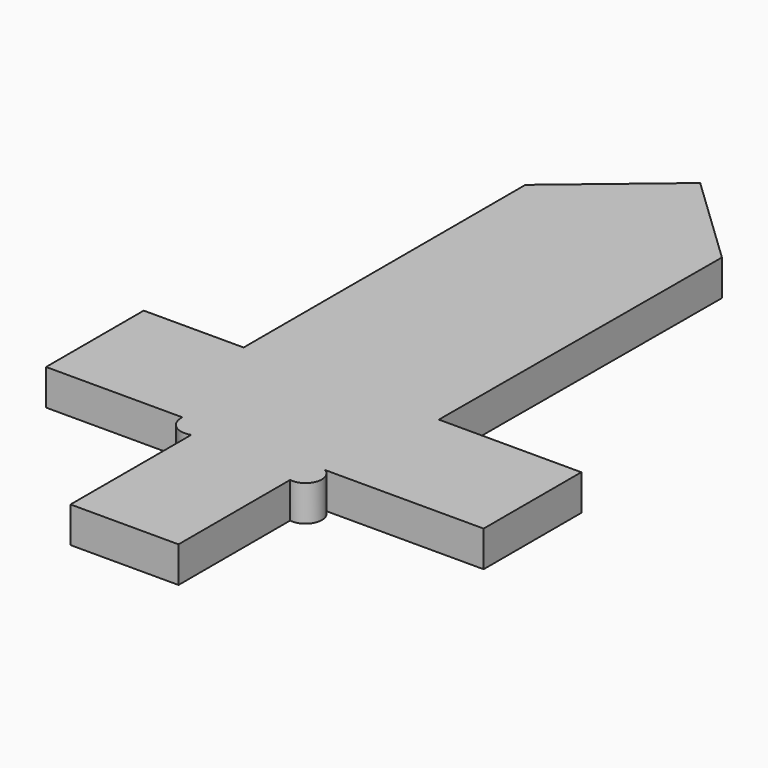
from build123d import *

# Parameters (mm, degrees)
F1_DEPTH = 6.35


with BuildPart() as f1:
    # F0 (on Top) → F1 (new body)
    with BuildSketch(Plane.XY):
        with BuildLine():
            Line((11.2930470291, 11.6638336243), (11.2889658673, 8.2962913439))
            Line((11.2889658673, 8.2962913439), (12.0783096254, 8.2962913439))
            ThreePointArc((12.0783096254, 8.2962913439), (11.597122228, 9.9594124709), (11.2930470291, 11.6638336243))
        make_face()
        with BuildLine():
            ThreePointArc((37.3601643932, 8.2962913439), (38.2870822741, 3.6378996321), (41.3408465683, 0))
            Line((41.3408465683, 0), (41.3408465683, 8.2962913439))
            Line((41.3408465683, 8.2962913439), (37.3601643932, 8.2962913439))
        make_face()
        Polygon((-2.8123026714, 44.2937612534), (-2.8123026714, 8.2962913439), (4.7809146345, 8.2962913439), (4.2298541355, 62.0834718136), (0, 65.1047974825), (-2.8123026714, 61.1675754189), (-2.8123026714, 51.8869794905), align=None)
        with BuildLine():
            Line((-10.813491419, 44.2937612534), (-10.8399443516, 12.7670755447))
            ThreePointArc((-10.8399443516, 12.7670755447), (-7.807634986, 11.5598221537), (-7.8491980914, 8.2962913439))
            Line((-7.8491980914, 8.2962913439), (-2.8123026714, 8.2962913439))
            Line((-2.8123026714, 8.2962913439), (-2.8123026714, 44.2937612534))
            Line((-2.8123026714, 44.2937612534), (-2.8123026714, 51.8869794905))
            Line((-2.8123026714, 51.8869794905), (-2.8123026714, 61.1675754189))
            Line((-2.8123026714, 61.1675754189), (0, 65.1047974825))
            Line((0, 65.1047974825), (4.2298541355, 62.0834718136))
            Line((4.2298541355, 62.0834718136), (4.7809146345, 8.2962913439))
            Line((4.7809146345, 8.2962913439), (7.9583702463, 8.2962913439))
            ThreePointArc((7.9583702463, 8.2962913439), (8.7402628967, 10.8568667256), (11.2930470291, 11.6638336243))
            Line((11.2930470291, 11.6638336243), (11.3227786668, 36.1966877298))
            Line((11.3227786668, 36.1966877298), (11.3565914662, 64.0970841157))
            Line((11.3565914662, 64.0970841157), (0, 76.3540118933))
            Line((0, 76.3540118933), (-10.813491419, 66.3348287344))
            Line((-10.813491419, 66.3348287344), (-10.813491419, 44.2937612534))
        make_face()
        with BuildLine():
            Line((-7.8520236744, -16.7259749874), (-7.8491980914, -13.3584365249))
            Line((-7.8491980914, -13.3584365249), (-12.0928995311, -13.3584365249))
            ThreePointArc((-12.0928995311, -13.3584365249), (-10.8775211038, -16.1819833799), (-7.8520236744, -16.7259749874))
        make_face()
        with BuildLine():
            ThreePointArc((11.2889658673, -38.08565063), (8.4977328176, -40.3265486279), (6.7495256662, -43.4500686824))
            Line((6.7495256662, -43.4500686824), (11.2889658673, -43.4500686824))
            Line((11.2889658673, -43.4500686824), (11.2889658673, -38.08565063))
        make_face()
        with BuildLine():
            Line((11.2889658673, -13.3584365249), (11.2889658673, -18.7083456713))
            ThreePointArc((11.2889658673, -18.7083456713), (14.4627701422, -16.8299590512), (13.2178198546, -13.3584365249))
            Line((13.2178198546, -13.3584365249), (11.2889658673, -13.3584365249))
        make_face()
        with BuildLine():
            ThreePointArc((41.3408465683, -8.0150617286), (38.6442879923, -10.0493741157), (37.9660837352, -13.3584365249))
            Line((37.9660837352, -13.3584365249), (41.3408465683, -13.3584365249))
            Line((41.3408465683, -13.3584365249), (41.3408465683, -8.0150617286))
        make_face()
        with BuildLine():
            Line((-10.8399443516, 12.7670755447), (-10.8436956293, 8.2962913439))
            Line((-10.8436956293, 8.2962913439), (-10.813491419, 8.2962913439))
            Line((-10.813491419, 8.2962913439), (-7.8491980914, 8.2962913439))
            ThreePointArc((-7.8491980914, 8.2962913439), (-7.807634986, 11.5598221537), (-10.8399443516, 12.7670755447))
        make_face()
        with BuildLine():
            ThreePointArc((-5.6246044114, -43.4500686824), (-5.6592907147, -40.9529633104), (-7.8713791675, -39.793910656))
            Line((-7.8713791675, -39.793910656), (-7.8744469211, -43.4500686824))
            Line((-7.8744469211, -43.4500686824), (-5.6246044114, -43.4500686824))
        make_face()
        with BuildLine():
            ThreePointArc((11.2930470291, 11.6638336243), (8.7402628967, 10.8568667256), (7.9583702463, 8.2962913439))
            Line((7.9583702463, 8.2962913439), (11.2889658673, 8.2962913439))
            Line((11.2889658673, 8.2962913439), (11.2930470291, 11.6638336243))
        make_face()
        with BuildLine():
            Line((-12.0928995311, -13.3584365249), (-7.8491980914, -13.3584365249))
            Line((-7.8491980914, -13.3584365249), (-7.8520236744, -16.7259749874))
            Line((-7.8520236744, -16.7259749874), (-7.8713791675, -39.793910656))
            ThreePointArc((-7.8713791675, -39.793910656), (-5.6592907147, -40.9529633104), (-5.6246044114, -43.4500686824))
            Line((-5.6246044114, -43.4500686824), (6.7495256662, -43.4500686824))
            ThreePointArc((6.7495256662, -43.4500686824), (8.4977328176, -40.3265486279), (11.2889658673, -38.08565063))
            Line((11.2889658673, -38.08565063), (11.2889658673, -18.7083456713))
            Line((11.2889658673, -18.7083456713), (11.2889658673, -13.3584365249))
            Line((11.2889658673, -13.3584365249), (13.2178198546, -13.3584365249))
            Line((13.2178198546, -13.3584365249), (37.9660837352, -13.3584365249))
            ThreePointArc((37.9660837352, -13.3584365249), (38.6442879923, -10.0493741157), (41.3408465683, -8.0150617286))
            Line((41.3408465683, -8.0150617286), (41.3408465683, 0))
            ThreePointArc((41.3408465683, 0), (38.2870822741, 3.6378996321), (37.3601643932, 8.2962913439))
            Line((37.3601643932, 8.2962913439), (31.7790135741, 8.2962913439))
            Line((31.7790135741, 8.2962913439), (17.8106164583, 8.2962913439))
            Line((17.8106164583, 8.2962913439), (16.0766797152, 8.2962913439))
            Line((16.0766797152, 8.2962913439), (14.3427429721, 8.2962913439))
            Line((14.3427429721, 8.2962913439), (12.0783096254, 8.2962913439))
            Line((12.0783096254, 8.2962913439), (11.2889658673, 8.2962913439))
            Line((11.2889658673, 8.2962913439), (7.9583702463, 8.2962913439))
            Line((7.9583702463, 8.2962913439), (4.7809146345, 8.2962913439))
            Line((4.7809146345, 8.2962913439), (-2.8123026714, 8.2962913439))
            Line((-2.8123026714, 8.2962913439), (-7.8491980914, 8.2962913439))
            Line((-7.8491980914, 8.2962913439), (-10.813491419, 8.2962913439))
            Line((-10.813491419, 8.2962913439), (-10.8436956293, 8.2962913439))
            Line((-10.8436956293, 8.2962913439), (-18.5611955822, 8.2962913439))
            Line((-18.5611955822, 8.2962913439), (-27.1387170069, 8.2962913439))
            Line((-27.1387170069, 8.2962913439), (-31.7087078001, 8.2962913439))
            ThreePointArc((-31.7087078001, 8.2962913439), (-32.9074253056, 5.0668217141), (-36.2786985934, 4.3590688147))
            Line((-36.2786985934, 4.3590688147), (-36.2786985934, -8.5775218904))
            ThreePointArc((-36.2786985934, -8.5775218904), (-33.5801197144, -10.4479621169), (-32.0602469146, -13.3584365249))
            Line((-32.0602469146, -13.3584365249), (-12.0928995311, -13.3584365249))
        make_face()
        with BuildLine():
            Line((-18.5611955822, 15.7010573894), (-18.5611955822, 8.2962913439))
            Line((-18.5611955822, 8.2962913439), (-10.8436956293, 8.2962913439))
            Line((-10.8436956293, 8.2962913439), (-10.8399443516, 12.7670755447))
            Line((-10.8399443516, 12.7670755447), (-10.813491419, 44.2937612534))
            Line((-10.813491419, 44.2937612534), (-10.813491419, 66.3348287344))
            Line((-10.813491419, 66.3348287344), (0, 76.3540118933))
            Line((0, 76.3540118933), (11.3565914662, 64.0970841157))
            Line((11.3565914662, 64.0970841157), (11.3227786668, 36.1966877298))
            Line((11.3227786668, 36.1966877298), (11.2930470291, 11.6638336243))
            ThreePointArc((11.2930470291, 11.6638336243), (11.597122228, 9.9594124709), (12.0783096254, 8.2962913439))
            Line((12.0783096254, 8.2962913439), (14.3427429721, 8.2962913439))
            Line((14.3427429721, 8.2962913439), (16.0766797152, 8.2962913439))
            Line((16.0766797152, 8.2962913439), (16.3020100445, 70.7799866796))
            Line((16.3020100445, 70.7799866796), (0, 86.3380655646))
            Line((0, 86.3380655646), (-18.5611955822, 70.7799866796))
            Line((-18.5611955822, 70.7799866796), (-18.5611955822, 15.7010573894))
        make_face()
        with BuildLine():
            Line((-36.2786985934, 8.2962913439), (-36.2786985934, 4.3590688147))
            ThreePointArc((-36.2786985934, 4.3590688147), (-32.9074253056, 5.0668217141), (-31.7087078001, 8.2962913439))
            Line((-31.7087078001, 8.2962913439), (-36.2786985934, 8.2962913439))
        make_face()
        with BuildLine():
            Line((-36.2786985934, -13.3584365249), (-32.0602469146, -13.3584365249))
            ThreePointArc((-32.0602469146, -13.3584365249), (-33.5801197144, -10.4479621169), (-36.2786985934, -8.5775218904))
            Line((-36.2786985934, -8.5775218904), (-36.2786985934, -13.3584365249))
        make_face()
    extrude(amount=F1_DEPTH)


solid = f1.part
